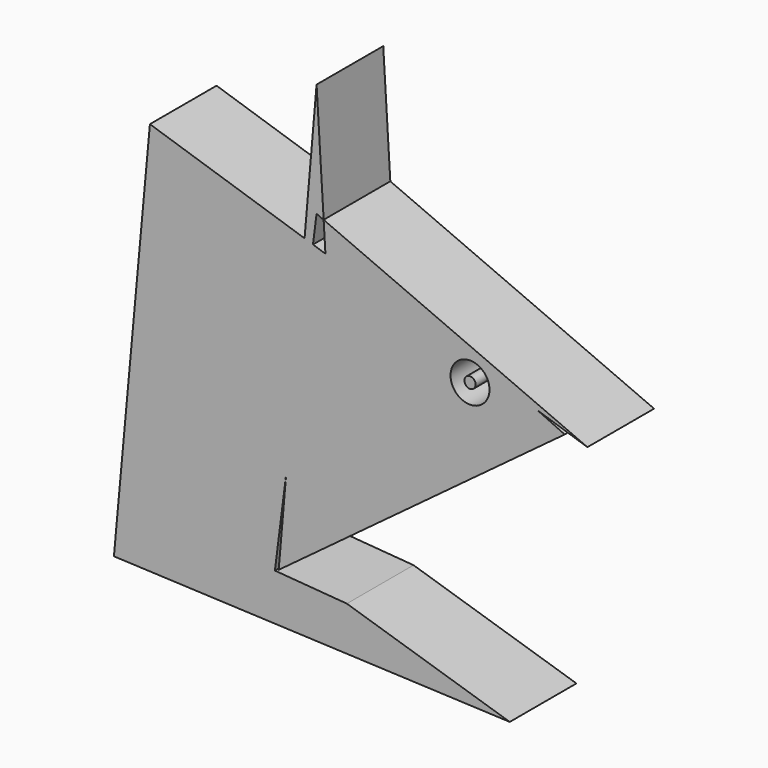
from build123d import *

# Parameters (mm, degrees)
F1_DEPTH = 10
F2_R     = 2.3364135793
F2_R_2   = 0.6719729415
F3_DEPTH = 10.001


with BuildPart() as f1:
    # F0 (on Front) → F1 (new body)
    with BuildSketch(Plane.XZ):
        Polygon((-36.3636389375, 1.9309325144), (-28.9556026929, 7.4271643797), (-30.7563615832, 37.1479328279), (-32.2503813173, 37.6331391571), (-35.467820301, 12.3253225806), align=None)
        Polygon((-30.7563615832, 37.1479328279), (-28.9556026929, 7.4271643797), (-2.0454558544, 27.3925643414), (-5.277287176, 28.8732039974), align=None)
        Polygon((-30.9681419911, 40.6432794287), (-30.7563615832, 37.1479328279), (-5.277287176, 28.8732039974), align=None)
        Polygon((-31.8181850016, 41.0327203572), (-30.9681419911, 40.6432794287), (-30.9694355296, 40.6646287383), align=None)
        Polygon((-30.9694355296, 40.6646287383), (-30.9681419911, 40.6432794287), (-5.277287176, 28.8732039974), (0.6818191614, 26.9378907979), align=None)
        Polygon((-35.467820301, 12.3253225806), (-32.2503813173, 37.6331391571), (-33.2585028197, 37.9605424186), align=None)
        Polygon((-33.2585028197, 37.9605424186), (-32.2503813173, 37.6331391571), (-31.8181850016, 41.0327203572), (-30.9694355296, 40.6646287383), (-31.8181850016, 54.6728819609), align=None)
        Polygon((-36.8181839585, 1.7035964411), (-35.467820301, 12.3253225806), (-33.2585028197, 37.9605424186), (-51.8181845546, 43.9880900085), (-56.1363659799, -3.0704592355), (-8.6363628507, -5.1164836623), (-28.1818192452, 1.021588454), align=None)
    extrude(amount=F1_DEPTH)

    # F2 (on Front) → F3 (cut, through all)
    with BuildSketch(Plane.XZ):
        with Locations((-13.406759128, 29.1842464358)):
            Circle(F2_R)
        with Locations((-13.406759128, 29.1842464358)):
            Circle(F2_R_2, mode=Mode.SUBTRACT)
    extrude(amount=F3_DEPTH, mode=Mode.SUBTRACT)


solid = f1.part
